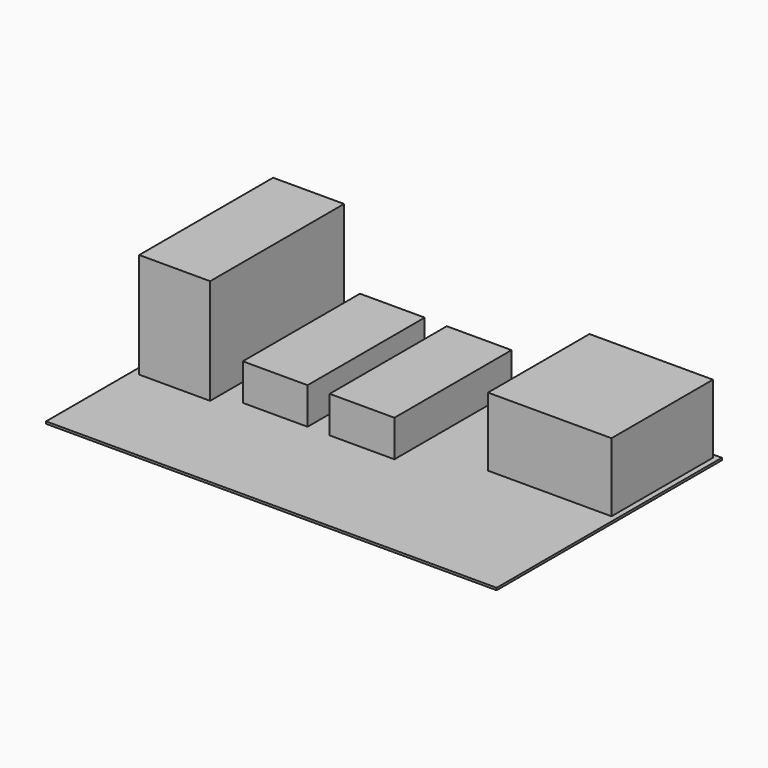
from build123d import *

# Parameters (mm, degrees)
SKETCH_W     = 406.4
SKETCH_H     = 254
PAD_DEPTH    = 2
SKETCH001_W  = 111.4
SKETCH001_H  = 114.4
PAD001_DEPTH = 64
SKETCH002_W  = 64
SKETCH002_H  = 151
PAD002_DEPTH = 97
SKETCH003_W  = 58.42
SKETCH003_H  = 132.08
PAD003_DEPTH = 35.02
SKETCH004_W  = 58.42
SKETCH004_H  = 132.08
PAD004_DEPTH = 35.02


with BuildPart() as pad:
    # Sketch → Pad (new body)
    with BuildSketch(Plane.XY):
        with Locations((57.674634, -35.07402)):
            Rectangle(SKETCH_W, SKETCH_H)
    extrude(amount=PAD_DEPTH)


with BuildPart() as pad001:
    # Sketch001 → Pad001 (new body)
    with BuildSketch(Plane.XY):
        with Locations((200.230452, 30.81523)):
            Rectangle(SKETCH001_W, SKETCH001_H)
    extrude(amount=PAD001_DEPTH)


with BuildPart() as pad002:
    # Sketch002 → Pad002 (new body)
    with BuildSketch(Plane.XY):
        with Locations((-106.823849, 10.023213)):
            Rectangle(SKETCH002_W, SKETCH002_H)
    extrude(amount=PAD002_DEPTH)


with BuildPart() as pad003:
    # Sketch003 → Pad003 (new body)
    with BuildSketch(Plane.XY):
        with Locations((-25.738078, 12.535692)):
            Rectangle(SKETCH003_W, SKETCH003_H)
    extrude(amount=PAD003_DEPTH)


with BuildPart() as pad004:
    # Sketch004 → Pad004 (new body)
    with BuildSketch(Plane.XY):
        with Locations((53.035747, 11.999326)):
            Rectangle(SKETCH004_W, SKETCH004_H)
    extrude(amount=PAD004_DEPTH)


solid = Compound([pad.part, pad001.part, pad002.part, pad003.part, pad004.part])
